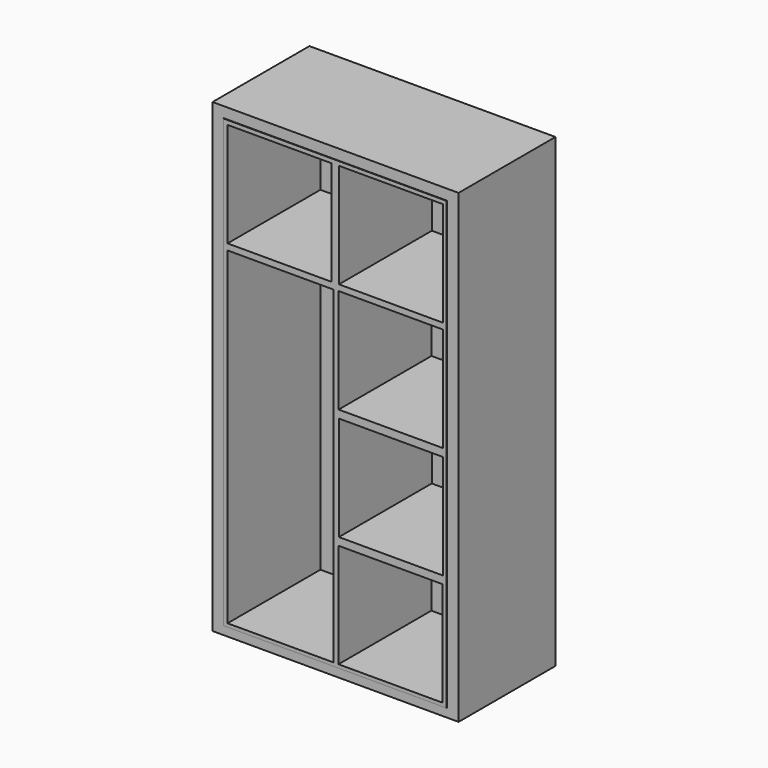
from build123d import *

# Parameters (mm, degrees)
F0_W     = 111.9791269302
F0_H     = 211.9790837169
F1_DEPTH = 52.578
F0_W_2   = 50.8
F0_H_2   = 50.8
F0_W_3   = 47.3935049959
F0_H_3   = 47.4935397506
F2_DEPTH = 52.832
F3_W     = 48.1118559837
F3_H     = 149.3962490931
F4_DEPTH = 53.594
F5_W     = 111.9791269302
F5_H     = 211.9790837169
F6_DEPTH = 2.54
F7_R     = 2.6479987439
F8_DEPTH = 48.006


with BuildPart() as f1:
    # F0 (on Front) → F1 (new body)
    with BuildSketch(Plane.XZ):
        with Locations((0.8473545313, 47.6342774928)):
            Rectangle(F0_W, F0_H)
        Polygon((-50.0439400733, 97.9935325928), (-50.0439400733, 148.7935325928), (0.7560599267, 148.7935325928), (51.5560599267, 148.7935325928), (51.5560599267, 97.9935325928), (51.5560599267, 47.1935325928), (51.5560599267, -3.6064674072), (51.5560599267, -54.4064674072), (0.7560599267, -54.4064674072), (-50.0439400733, -54.4064674072), align=None, mode=Mode.SUBTRACT)
    extrude(amount=F1_DEPTH)

    # F0 (on Front) → F2 (join)
    with BuildSketch(Plane.XZ):
        with Locations((-24.6439400733, 123.3935325928)):
            Rectangle(F0_W_2, F0_H_2)
        with Locations((-24.4151034858, 123.106200248)):
            Rectangle(F0_W_3, F0_H_3, mode=Mode.SUBTRACT)
        with Locations((26.1560599267, 123.3935325928)):
            Rectangle(F0_W_2, F0_H_2)
        with Locations((26.312828064, 123.2058629394)):
            Rectangle(F0_W_3, F0_H_3, mode=Mode.SUBTRACT)
        with Locations((26.1560599267, 72.5935325928)):
            Rectangle(F0_W_2, F0_H_2)
        with Locations((26.148814708, 72.9721300304)):
            Rectangle(F0_W_3, F0_H_3, mode=Mode.SUBTRACT)
        Polygon((0.7560599267, 97.9935325928), (-50.0439400733, 97.9935325928), (-50.0439400733, -54.4064674072), (0.7560599267, -54.4064674072), (0.7560599267, -3.6064674072), (0.7560599267, 47.1935325928), align=None)
        with Locations((26.1560599267, 21.7935325928)):
            Rectangle(F0_W_2, F0_H_2)
        with Locations((26.2633450329, 21.912215976)):
            Rectangle(F0_W_3, F0_H_3, mode=Mode.SUBTRACT)
        with Locations((26.1560599267, -29.0064674072)):
            Rectangle(F0_W_2, F0_H_2)
        with Locations((26.0739140213, -29.1093634441)):
            Rectangle(F0_W_3, F0_H_3, mode=Mode.SUBTRACT)
    extrude(amount=F2_DEPTH)

    # F3 (on face) → F4 (cut)
    with BuildSketch(Plane.XZ.offset(52.832)):
        with Locations((-24.0559279919, 21.8419912271)):
            Rectangle(F3_W, F3_H)
    extrude(amount=-F4_DEPTH, mode=Mode.SUBTRACT)

    # F5 (on face) → F6 (join)
    with BuildSketch(Plane(origin=(0, 0, 0), x_dir=(-1, 0, 0), z_dir=(0, 1, 0))):
        with Locations((-0.8473545313, 47.6342774928)):
            Rectangle(F5_W, F5_H)
    extrude(amount=F6_DEPTH)

    # F7 (on face) → F8 (join)
    with BuildSketch(Plane(origin=(0, 0, 0), x_dir=(0, -1, 0), z_dir=(-1, 0, 0))):
        with Locations((24.5460756123, 87.587043643)):
            Circle(F7_R)
    extrude(amount=F8_DEPTH)


solid = f1.part
